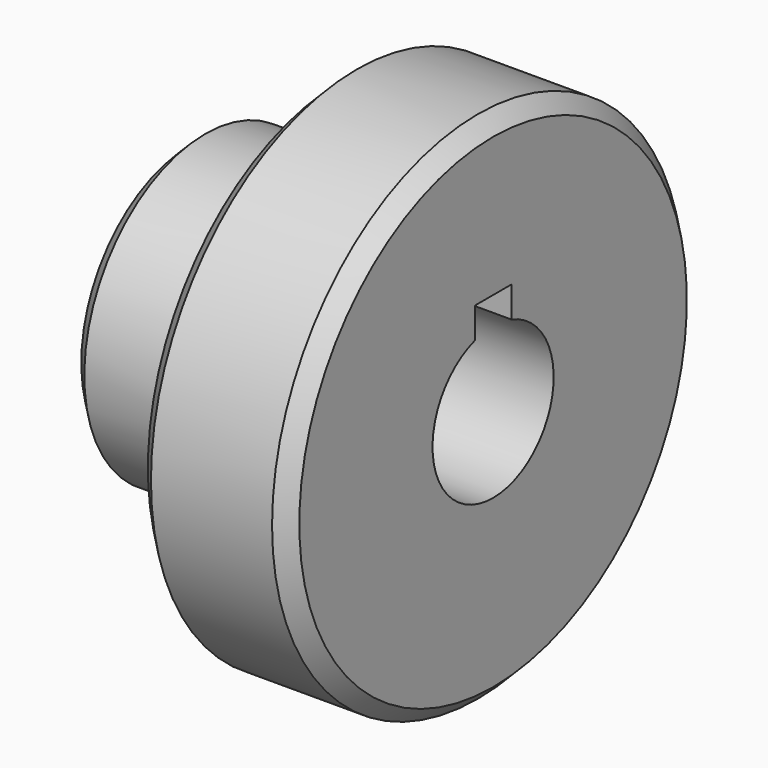
from build123d import *

# Parameters (mm, degrees)
F2_SIZE  = 1
F4_DEPTH = 20


with BuildPart() as f1:
    # F0 (on Front) → F1 (revolve)
    with BuildSketch(Plane.XZ):
        Polygon((0, 10), (0, 0), (20, 0), (20, 17), (10, 17), (10, 10), align=None)
    revolve(axis=Axis((10, 0, 0), (1, 0, 0)))

    # F2
    f2_edges = [f1.edges().sort_by_distance(p)[0] for p in [
        (10, 0, -17),
        (0, 0, -10),
        (20, 0, -17),
    ]]
    chamfer(f2_edges, length=F2_SIZE)

    # F3 (on face) → F4 (cut)
    with BuildSketch(Plane.YZ.offset(20)):
        with BuildLine():
            Line((-1.5, 6.8), (-1.5, 4.769696))
            ThreePointArc((-1.5, 4.769696), (0, -5), (1.5, 4.769696))
            Line((1.5, 4.769696), (1.5, 6.8))
            Line((1.5, 6.8), (0, 6.8))
            Line((0, 6.8), (-1.5, 6.8))
        make_face()
    extrude(amount=-F4_DEPTH, mode=Mode.SUBTRACT)


solid = f1.part
